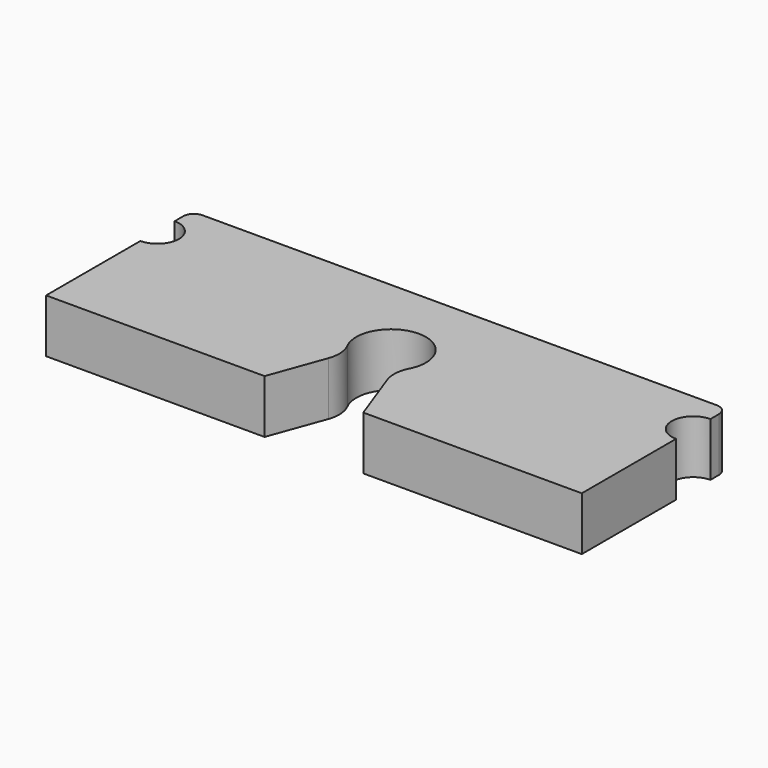
from build123d import *

# Parameters (mm, degrees)
F1_DEPTH = 5


with BuildPart() as f1:
    # F0 (on Top) → F1 (new body)
    with BuildSketch(Plane.XY):
        with BuildLine():
            ThreePointArc((-2.891459, -1.483901), (0, 3.25), (2.891459, -1.483901))
            ThreePointArc((2.891459, -1.483901), (2.566364, -2.666148), (2.741421, -3.879717))
            Line((2.741421, -3.879717), (4.605052, -9))
            Line((4.605052, -9), (25, -9))
            Line((25, -9), (25, 2))
            ThreePointArc((25, 2), (23, 4), (25, 6))
            Line((25, 6), (25, 7))
            ThreePointArc((25, 7), (24.707107, 7.707107), (24, 8))
            Line((24, 8), (-24, 8))
            ThreePointArc((-24, 8), (-24.707107, 7.707107), (-25, 7))
            Line((-25, 7), (-25, 6))
            ThreePointArc((-25, 6), (-23, 4), (-25, 2))
            Line((-25, 2), (-25, -9))
            Line((-25, -9), (-4.605052, -9))
            Line((-4.605052, -9), (-2.741421, -3.879717))
            ThreePointArc((-2.741421, -3.879717), (-2.566364, -2.666148), (-2.891459, -1.483901))
        make_face()
    extrude(amount=F1_DEPTH)


solid = f1.part
